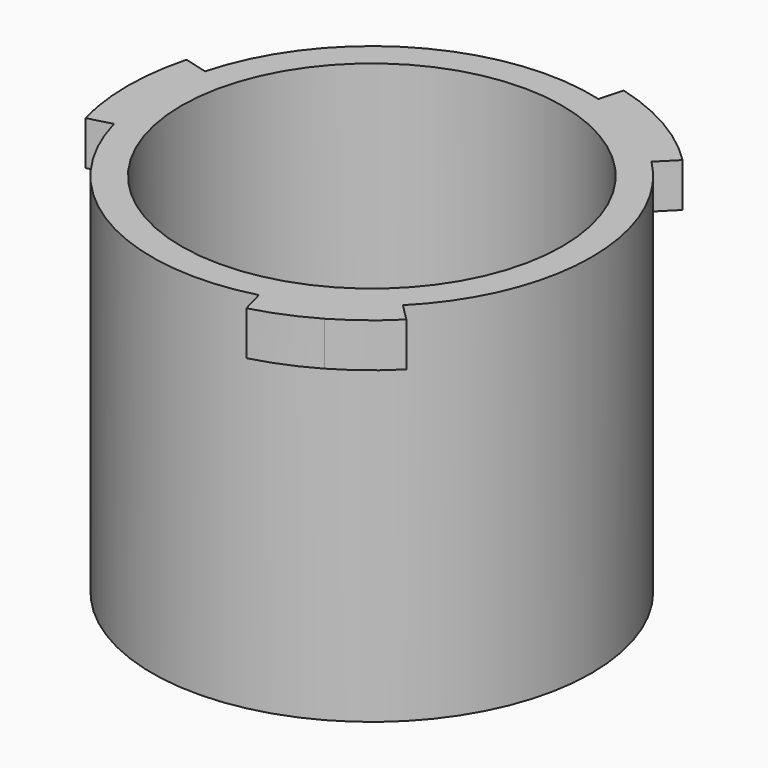
from build123d import *

# Parameters (mm, degrees)
F0_R     = 9
F1_DEPTH = 15
F3_DEPTH = 1.8
F4_R     = 7.8
F5_DEPTH = 25


with BuildPart() as f1:
    # F0 (on Top) → F1 (new body)
    with BuildSketch(Plane.XY):
        Circle(F0_R)
    extrude(amount=F1_DEPTH)

    # F2 (on face) → F3 (join)
    with BuildSketch(Plane.XY.offset(15)):
        with BuildLine():
            Line((6.363961, 6.363961), (7.071068, 7.071068))
            ThreePointArc((7.071068, 7.071068), (6.087614, 7.933533), (5, 8.660254))
            ThreePointArc((5, 8.660254), (3.826834, 9.238795), (2.58819, 9.659258))
            Line((2.58819, 9.659258), (2.329371, 8.693332))
            ThreePointArc((2.329371, 8.693332), (4.5, 7.794229), (6.363961, 6.363961))
        make_face()
        with BuildLine():
            ThreePointArc((5, -8.660254), (6.087614, -7.933533), (7.071068, -7.071068))
            Line((7.071068, -7.071068), (6.363961, -6.363961))
            ThreePointArc((6.363961, -6.363961), (4.5, -7.794229), (2.329371, -8.693332))
            Line((2.329371, -8.693332), (2.58819, -9.659258))
            ThreePointArc((2.58819, -9.659258), (3.826834, -9.238795), (5, -8.660254))
        make_face()
        with BuildLine():
            Line((-8.693332, 2.329371), (-9.659258, 2.58819))
            ThreePointArc((-9.659258, 2.58819), (-9.914449, 1.305262), (-10, 0))
            ThreePointArc((-10, 0), (-9.914449, -1.305262), (-9.659258, -2.58819))
            Line((-9.659258, -2.58819), (-8.693332, -2.329371))
            ThreePointArc((-8.693332, -2.329371), (-9, 0), (-8.693332, 2.329371))
        make_face()
    extrude(amount=-F3_DEPTH)

    # F4 (on face) → F5 (cut)
    with BuildSketch(Plane(origin=(0, 0, 0), x_dir=(1, 0, 0), z_dir=(0, 0, -1))):
        Circle(F4_R)
    extrude(amount=-F5_DEPTH, mode=Mode.SUBTRACT)


solid = f1.part
